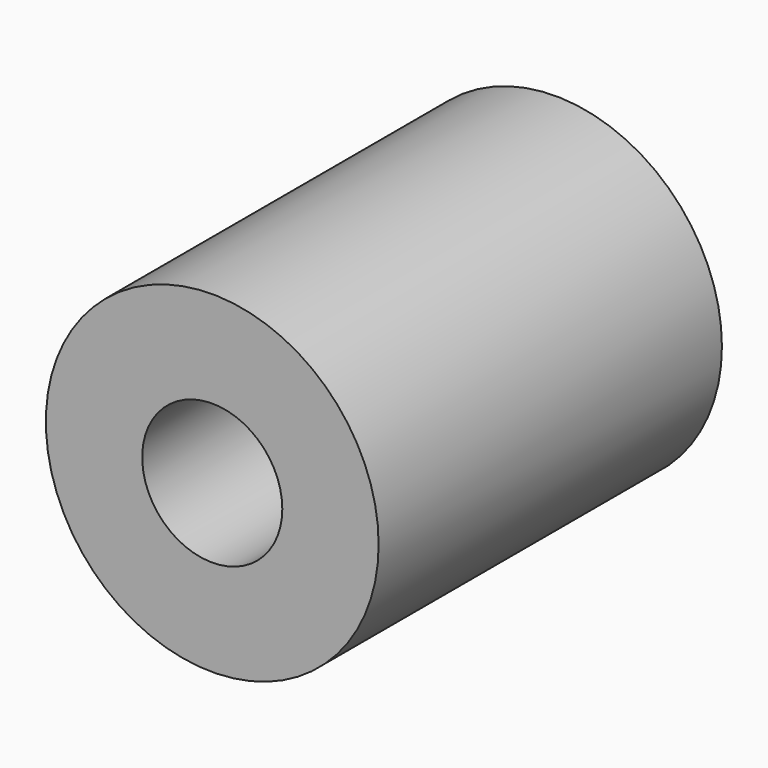
from build123d import *

# Parameters (mm, degrees)
F0_R     = 9.5
F0_R_2   = 2.5
F1_DEPTH = 24.5
F2_R     = 4
F3_DEPTH = 12.5


with BuildPart() as f1:
    # F0 (on Front) → F1 (new body)
    with BuildSketch(Plane.XZ):
        Circle(F0_R)
        Circle(F0_R_2, mode=Mode.SUBTRACT)
    extrude(amount=F1_DEPTH)

    # F2 (on face) → F3 (cut)
    with BuildSketch(Plane.XZ.offset(24.5)):
        Circle(F2_R)
    extrude(amount=-F3_DEPTH, mode=Mode.SUBTRACT)


solid = f1.part
